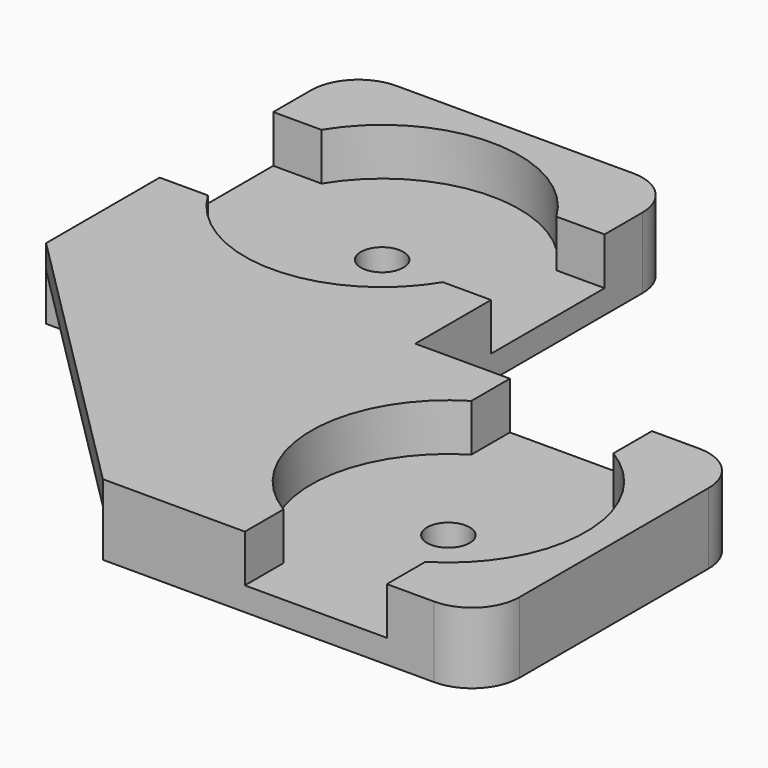
from build123d import *

# Parameters (mm, degrees)
SKETCH006_W                 = 14
SKETCH006_H                 = 14
PAD002_DEPTH                = 3
POCKET004_DEPTH             = 2
SKETCH008_R                 = 0.9
POCKET005_DEPTH             = 1.001
CLONE001007_PLACEMENT_ANGLE = 90
PAD_DEPTH                   = 3
SKETCH010_W                 = 12
SKETCH010_H                 = 12
POCKET_DEPTH                = 2
CLONE001006_PLACEMENT_ANGLE = 180
FILLET001_R                 = 2
CLONE001009_PLACEMENT_ANGLE = -90
CLONE001012_PLACEMENT_ANGLE = 180


with BuildPart() as obj1:
    # Sketch006 → Pad002 (new body)
    with BuildSketch(Plane.XY):
        Rectangle(SKETCH006_W, SKETCH006_H)
    extrude(amount=PAD002_DEPTH)

    # Sketch007 → Pocket004 (cut)
    with BuildSketch(Plane.XY.offset(3)):
        with BuildLine():
            Line((-3, 7), (-3, 4.963869))
            ThreePointArc((-3, 4.963869), (-5.8, 0), (-3, -4.963869))
            Line((-3, -7), (-3, -4.963869))
            Line((3, -7), (-3, -7))
            Line((3, -4.963869), (3, -7))
            ThreePointArc((3, -4.963869), (5.8, 0), (3, 4.963869))
            Line((3, 7), (3, 4.963869))
            Line((-3, 7), (3, 7))
        make_face()
    extrude(amount=-POCKET004_DEPTH, mode=Mode.SUBTRACT)

    # Sketch008 → Pocket005 (cut, through all)
    with BuildSketch(Plane.XY.offset(1)):
        Circle(SKETCH008_R)
    extrude(amount=-POCKET005_DEPTH, mode=Mode.SUBTRACT)


with BuildPart() as obj1_1:
    # Clone001005 placement: moved
    add(obj1.part.moved(Location((14, 0, 0))))


with BuildPart() as obj2:
    # Clone001007 base: copy of obj1
    add(obj1_1.part)


with BuildPart() as obj2_1:
    # Clone001007 placement: moved
    add(obj2.part.moved(Location((0, -28, 0))).rotate(Axis((0, -28, 0), (0, 0, 1)), CLONE001007_PLACEMENT_ANGLE))


with BuildPart() as obj3:
    # Sketch → Pad (new body)
    with BuildSketch(Plane.XY):
        Polygon((-7, -7), (-7, 7), (7, 7), (7, 5), (-5, -7), align=None)
    extrude(amount=PAD_DEPTH)

    # Sketch010 → Pocket (cut)
    with BuildSketch(Plane(origin=(0, 0, 0), x_dir=(1, 0, 0), z_dir=(0, 0, -1))):
        with Locations((1, 1)):
            Rectangle(SKETCH010_W, SKETCH010_H)
    extrude(amount=-POCKET_DEPTH, mode=Mode.SUBTRACT)


with BuildPart() as obj3_1:
    # Clone001006 placement: moved
    add(obj3.part.rotate(Axis((0, 0, 0), (0, 0, 1)), CLONE001006_PLACEMENT_ANGLE))


with BuildPart() as clone_of_corner_holder_double002:
    # Fusion001 base: copy of obj1
    add(obj1_1.part)

    # Fusion001: union obj2, obj3
    add(obj2_1.part)
    add(obj3_1.part)

    # Fillet001
    fillet001_edges = [clone_of_corner_holder_double002.edges().sort_by_distance(p)[0] for p in [
        (21, 7, 1.5),
        (21, -7, 1.5),
        (7, -21, 1.5),
        (-7, -21, 1.5),
    ]]
    fillet(fillet001_edges, radius=FILLET001_R)


with BuildPart() as clone_of_corner_holder_double002_1:
    # Clone001008 placement: moved
    add(clone_of_corner_holder_double002.part.moved(Location((-13.497608, 48.033168, 0))))


with BuildPart() as clone_of_corner_holder_double002_2:
    # Clone001009 placement: moved
    add(clone_of_corner_holder_double002_1.part.moved(Location((-30.900794, -30.494573, 0))).rotate(Axis((-30.900794, -30.494573, 0), (0, 0, 1)), CLONE001009_PLACEMENT_ANGLE))


with BuildPart() as clone_of_corner_holder_double002_3:
    # Clone001012 placement: moved
    add(clone_of_corner_holder_double002_2.part.moved(Location((84.263711, 16.007107, 0))).rotate(Axis((84.263711, 16.007107, 0), (0, 0, 1)), CLONE001012_PLACEMENT_ANGLE))


with BuildPart() as clone_of_corner_holder_double002_4:
    # Clone001018 placement: moved
    add(clone_of_corner_holder_double002_3.part.moved(Location((-42.131337, -8.004072, 63))))


solid = clone_of_corner_holder_double002_4.part
